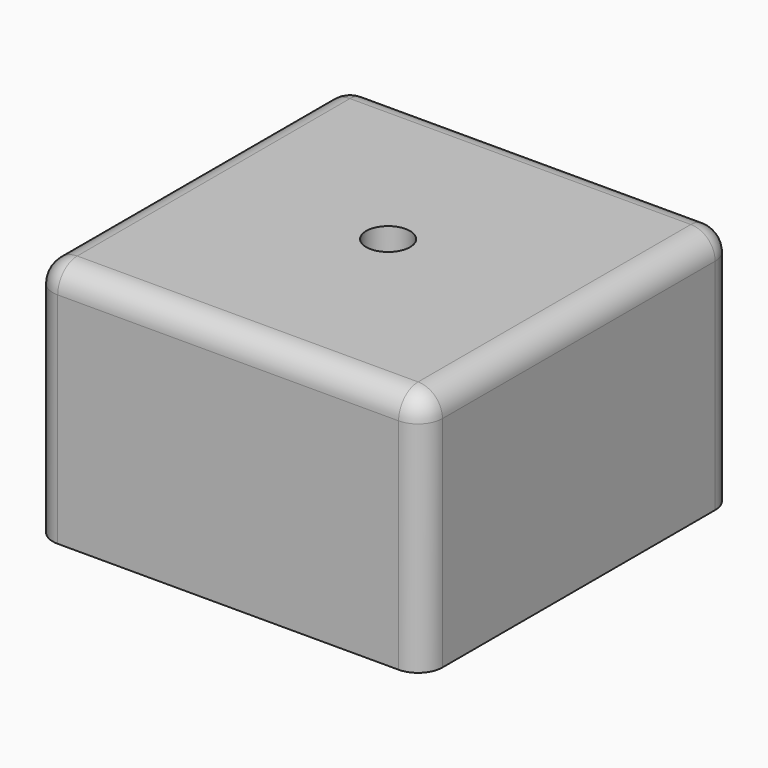
from build123d import *

# Parameters (mm, degrees)
CYLINDER001_R     = 1.8
CYLINDER001_DEPTH = 3
BOX006_W          = 3
BOX006_H          = 3
BOX006_DEPTH      = 3
BOX005_W          = 3
BOX005_H          = 3
BOX005_DEPTH      = 3
BOX003_W          = 3
BOX003_H          = 3
BOX003_DEPTH      = 3
BOX004_W          = 3
BOX004_H          = 3
BOX004_DEPTH      = 3
BOX002_W          = 3
BOX002_H          = 3
BOX002_DEPTH      = 3
BOX_W             = 26
BOX_H             = 26
BOX_DEPTH         = 17
BOX001_W          = 32
BOX001_H          = 32
BOX001_DEPTH      = 20
FILLET003_R       = 2


with BuildPart() as obj1:
    # Cylinder001 → Cylinder001 (new body)
    with BuildSketch(Plane(origin=(0.1, 0.3, 7), x_dir=(1, 0, 0), z_dir=(0, 0, 1))):
        Circle(CYLINDER001_R)
    extrude(amount=CYLINDER001_DEPTH)


with BuildPart() as l5:
    # Box006 → Box006 (new body)
    with BuildSketch(Plane(origin=(7.67, 8.11, 6.5), x_dir=(1, 0, 0), z_dir=(0, 0, 1))):
        with Locations((1.5, 1.5)):
            Rectangle(BOX006_W, BOX006_H)
    extrude(amount=BOX006_DEPTH)


with BuildPart() as l4:
    # Box005 → Box005 (new body)
    with BuildSketch(Plane(origin=(3.1, 8.11, 6.5), x_dir=(1, 0, 0), z_dir=(0, 0, 1))):
        with Locations((1.5, 1.5)):
            Rectangle(BOX005_W, BOX005_H)
    extrude(amount=BOX005_DEPTH)


with BuildPart() as l2:
    # Box003 → Box003 (new body)
    with BuildSketch(Plane(origin=(-6.04, 8.11, 6.5), x_dir=(1, 0, 0), z_dir=(0, 0, 1))):
        with Locations((1.5, 1.5)):
            Rectangle(BOX003_W, BOX003_H)
    extrude(amount=BOX003_DEPTH)


with BuildPart() as l3:
    # Box004 → Box004 (new body)
    with BuildSketch(Plane(origin=(-1.47, 8.11, 6.5), x_dir=(1, 0, 0), z_dir=(0, 0, 1))):
        with Locations((1.5, 1.5)):
            Rectangle(BOX004_W, BOX004_H)
    extrude(amount=BOX004_DEPTH)


with BuildPart() as fusion:
    # Box002 → Box002 (new body)
    with BuildSketch(Plane(origin=(-10.61, 8.11, 6.5), x_dir=(1, 0, 0), z_dir=(0, 0, 1))):
        with Locations((1.5, 1.5)):
            Rectangle(BOX002_W, BOX002_H)
    extrude(amount=BOX002_DEPTH)

    # Fusion: union L5, L4, L2, L3
    add(l5.part)
    add(l4.part)
    add(l2.part)
    add(l3.part)


with BuildPart() as maininside:
    # Box → Box (new body)
    with BuildSketch(Plane(origin=(-13, -13, -10), x_dir=(1, 0, 0), z_dir=(0, 0, 1))):
        with Locations((13, 13)):
            Rectangle(BOX_W, BOX_H)
    extrude(amount=BOX_DEPTH)


with BuildPart() as fillet003:
    # Box001 → Box001 (new body)
    with BuildSketch(Plane(origin=(-16, -16, -10), x_dir=(1, 0, 0), z_dir=(0, 0, 1))):
        with Locations((16, 16)):
            Rectangle(BOX001_W, BOX001_H)
    extrude(amount=BOX001_DEPTH)

    # Cut: cut MainInside
    add(maininside.part, mode=Mode.SUBTRACT)

    # Cut001: cut Fusion
    add(fusion.part, mode=Mode.SUBTRACT)

    # Cut002: cut obj1
    add(obj1.part, mode=Mode.SUBTRACT)

    # Fillet003
    fillet003_edges = [fillet003.edges().sort_by_distance(p)[0] for p in [
        (-16, -16, 0),
        (-16, 0, 10),
        (-16, 16, 0),
        (16, -16, 0),
        (0, -16, 10),
        (0, 16, 10),
        (16, 0, 10),
        (16, 16, 0),
    ]]
    fillet(fillet003_edges, radius=FILLET003_R)


solid = fillet003.part
